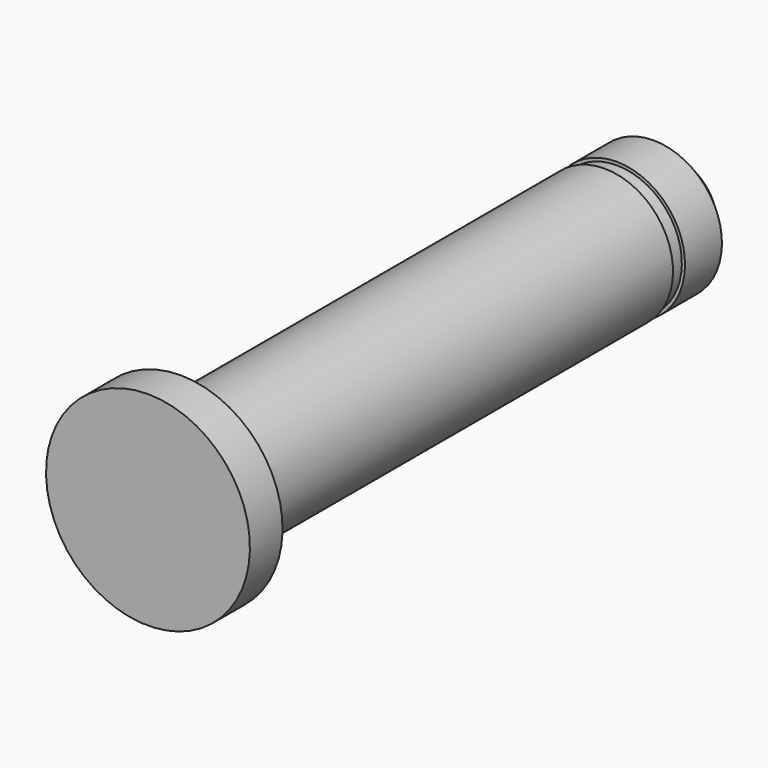
from build123d import *

# Parameters (mm, degrees)
F2_SIZE = 1.5


with BuildPart() as f1:
    # F0 (on Right) → F1 (revolve)
    with BuildSketch(Plane.YZ):
        Polygon((-21, 5.03), (-21, 7.5), (-24, 7.5), (-24, 0), (24, 0), (24, 5.03), (19.1, 5.03), (19.1, 4.8), (18, 4.8), (18, 5.03), align=None)
    revolve(axis=Axis((0, 0, 0), (0, 1, 0)))

    # F2
    f2_edges = [f1.edges().sort_by_distance(p)[0] for p in [
        (0, 24, -5.03),
    ]]
    chamfer(f2_edges, length=F2_SIZE)


solid = f1.part
